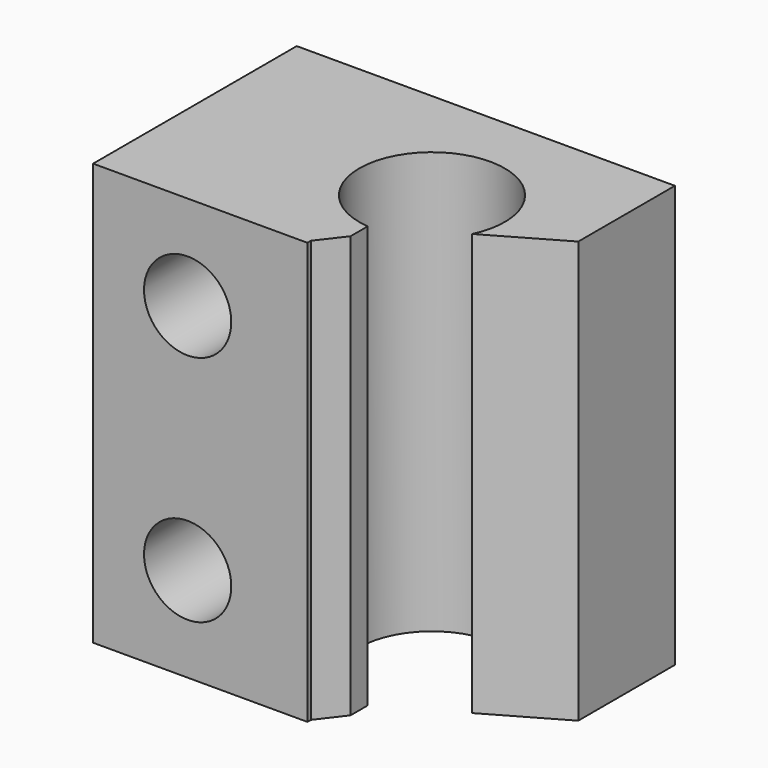
from build123d import *

# Parameters (mm, degrees)
F1_DEPTH = 29
F2_R     = 3
F3_DEPTH = 17.501


with BuildPart() as f1:
    # F0 (on Top) → F1 (new body)
    with BuildSketch(Plane.XY):
        with BuildLine():
            ThreePointArc((1.397452, -3.25215), (-0.64173, 6.074606), (6.33527, -0.44215))
            Line((6.33527, -0.44215), (11.331258, 2.423141))
            Line((11.331258, 2.423141), (11.331258, 10.728996))
            Line((11.331258, 10.728996), (-14.668742, 10.728996))
            Line((-14.668742, 10.728996), (-14.668742, -6.771004))
            Line((-14.668742, -6.771004), (0.066813, -6.771004))
            Line((0.066813, -6.771004), (0.066813, -6.465031))
            Line((0.066813, -6.465031), (1.397452, -4.728965))
            Line((1.397452, -4.728965), (1.397452, -3.25215))
        make_face()
    extrude(amount=F1_DEPTH)

    # F2 (on face) → F3 (cut, through all)
    with BuildSketch(Plane(origin=(0, 10.728996, 0), x_dir=(-1, 0, 0), z_dir=(0, 1, 0))):
        with Locations((8.168742, 22.5)):
            Circle(F2_R)
        with Locations((8.168742, 6.5)):
            Circle(F2_R)
    extrude(amount=-F3_DEPTH, mode=Mode.SUBTRACT)


solid = f1.part
